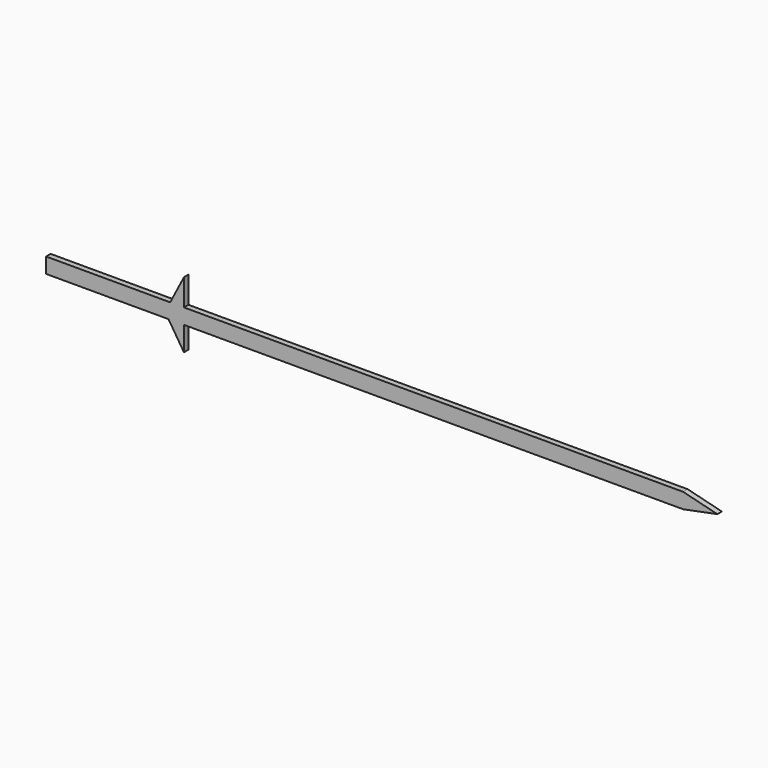
from build123d import *

# Parameters (mm, degrees)
F1_DEPTH = 25.4


with BuildPart() as f1:
    # F0 (on Front) → F1 (new body)
    with BuildSketch(Plane.XZ):
        Polygon((29.1372302365, 36.0923338064), (0, 0), (61.4815950394, 0), align=None)
        Polygon((0, 68.6058998108), (0, 0), (29.1372302365, 36.0923338064), align=None)
        Polygon((92.1983955783, 27.5270479194), (61.4815950394, 0), (116.8669272567, 0), align=None)
        Polygon((29.1372302365, 36.0923338064), (61.4815950394, 0), (92.1983955783, 27.5270479194), (55.3853322174, 68.6058998108), align=None)
        Polygon((55.3853322174, 68.6058998108), (0, 68.6058998108), (29.1372302365, 36.0923338064), align=None)
        Polygon((162.7058745938, 41.0788518914), (116.8669272567, 0), (199.5189379547, 0), align=None)
        Polygon((92.1983955783, 27.5270479194), (116.8669272567, 0), (162.7058745938, 41.0788518914), (138.0373429154, 68.6058998108), align=None)
        Polygon((55.3853322174, 68.6058998108), (92.1983955783, 27.5270479194), (138.0373429154, 68.6058998108), align=None)
        Polygon((242.5688602068, 38.5794500717), (199.5189379547, 0), (305.7142806531, 0), align=None)
        Polygon((162.7058745938, 41.0788518914), (199.5189379547, 0), (242.5688602068, 38.5794500717), (193.4226751328, 68.6058998108), align=None)
        Polygon((138.0373429154, 68.6058998108), (162.7058745938, 41.0788518914), (193.4226751328, 68.6058998108), align=None)
        Polygon((333.859313772, 29.9515474522), (305.7142806531, 0), (378.6340653896, 0), align=None)
        Polygon((242.5688602068, 38.5794500717), (305.7142806531, 0), (333.859313772, 29.9515474522), (276.0746858307, 68.6058998108), align=None)
        Polygon((193.4226751328, 68.6058998108), (242.5688602068, 38.5794500717), (276.0746858307, 68.6058998108), align=None)
        Polygon((411.678229068, 29.6127285742), (378.6340653896, 0), (443.1916773319, 0), align=None)
        Polygon((333.859313772, 29.9515474522), (378.6340653896, 0), (411.678229068, 29.6127285742), (370.1822459698, 68.6058998108), align=None)
        Polygon((276.0746858307, 68.6058998108), (333.859313772, 29.9515474522), (370.1822459698, 68.6058998108), align=None)
        Polygon((500.0920428106, 35.0310704605), (443.1916773319, 0), (546.9418168068, 0), align=None)
        Polygon((411.678229068, 29.6127285742), (443.1916773319, 0), (500.0920428106, 35.0310704605), (455.1898132656, 68.6058998108), align=None)
        Polygon((370.1822459698, 68.6058998108), (411.678229068, 29.6127285742), (455.1898132656, 68.6058998108), align=None)
        Polygon((583.5595663031, 36.3207815349), (546.9418168068, 0), (616.1086559296, 0), align=None)
        Polygon((616.1086559296, 0), (546.9418168068, 0), (616.1086559296, -108.1683114171), align=None)
        Polygon((500.0920428106, 35.0310704605), (546.9418168068, 0), (554.6270608902, 68.6058998108), align=None)
        Polygon((554.6270608902, 68.6058998108), (546.9418168068, 0), (583.5595663031, 36.3207815349), align=None)
        Polygon((455.1898132656, 68.6058998108), (500.0920428106, 35.0310704605), (554.6270608902, 68.6058998108), align=None)
        Polygon((583.5595663031, 36.3207815349), (616.1086559296, 0), (616.1086559296, 68.6058998108), align=None)
        Polygon((616.1086559296, 68.6058998108), (616.1086559296, 0), (2846.6536998749, 0), (2999.7315406799, 30.4998084903), (2846.6536998749, 68.6058998108), align=None)
        Polygon((616.1086559296, 187.7363473177), (554.6270608902, 68.6058998108), (616.1086559296, 68.6058998108), align=None)
        Polygon((616.1086559296, 68.6058998108), (554.6270608902, 68.6058998108), (583.5595663031, 36.3207815349), align=None)
    extrude(amount=F1_DEPTH)


solid = f1.part
